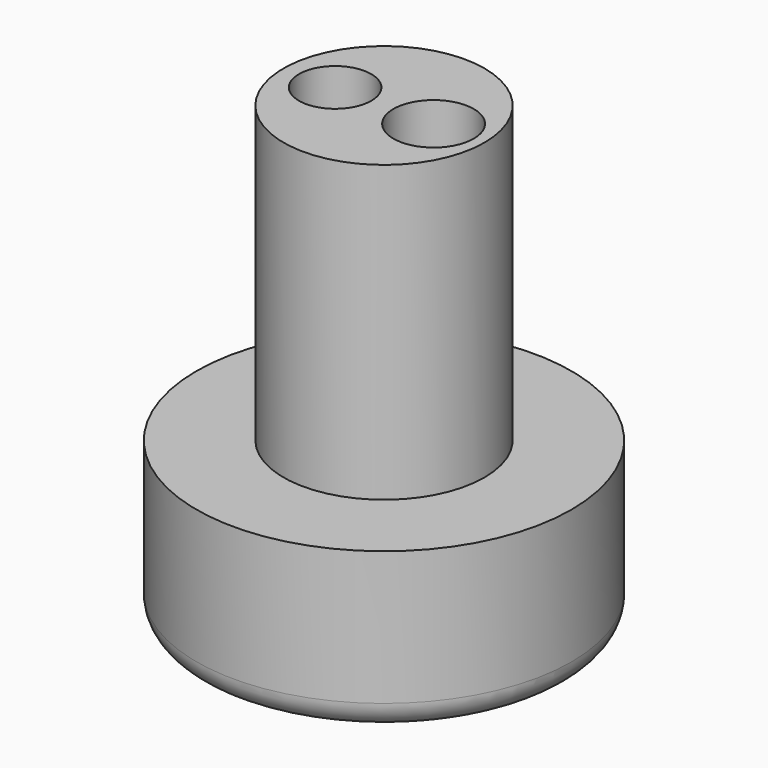
from build123d import *

# Parameters (mm, degrees)
F0_R     = 35
F0_R_2   = 18.75
F1_DEPTH = 30
F0_R_3   = 6.75
F0_R_4   = 7.5
F2_DEPTH = 85
F3_R     = 5


with BuildPart() as f1:
    # F0 (on Top) → F1 (new body)
    with BuildSketch(Plane.XY):
        Circle(F0_R)
        Circle(F0_R_2, mode=Mode.SUBTRACT)
    extrude(amount=F1_DEPTH)

    # F0 (on Top) → F2 (join)
    with BuildSketch(Plane.XY):
        Circle(F0_R_2)
        with Locations((-9.115429, 0)):
            Circle(F0_R_3, mode=Mode.SUBTRACT)
        with Locations((9.25153, 0)):
            Circle(F0_R_4, mode=Mode.SUBTRACT)
    extrude(amount=F2_DEPTH)

    # F3
    f3_edges = [f1.edges().sort_by_distance(p)[0] for p in [
        (-35, 0, 0),
    ]]
    fillet(f3_edges, radius=F3_R)


solid = f1.part
